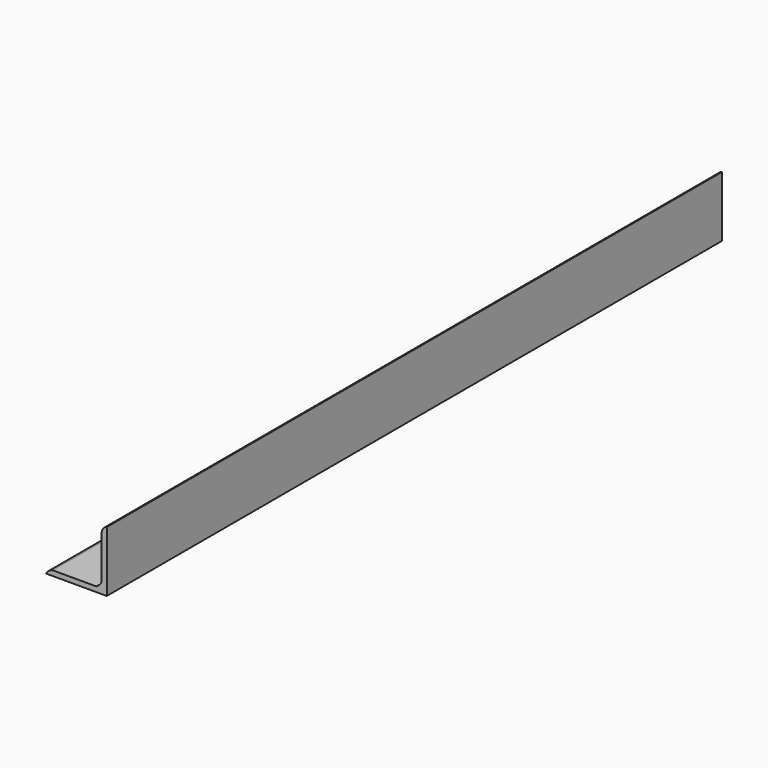
from build123d import *

# Parameters (mm, degrees)
F1_DEPTH = 482.6


with BuildPart() as f1:
    # F0 (on Front) → F1 (new body)
    with BuildSketch(Plane.XZ):
        with BuildLine():
            Line((-3.175, 0), (0, 0))
            Line((0, 0), (0, 3.175))
            Line((0, 3.175), (0, 38.1))
            ThreePointArc((0, 38.1), (-2.374811, 36.431428), (-3.175, 33.641525))
            Line((-3.175, 33.641525), (-3.175, 7.316625))
            ThreePointArc((-3.175, 7.316625), (-4.417453, 4.790697), (-6.722561, 3.175))
            Line((-6.722561, 3.175), (-33.87744, 3.175))
            ThreePointArc((-33.87744, 3.175), (-36.362901, 2.085139), (-38.1, 0))
            Line((-38.1, 0), (-3.175, 0))
        make_face()
    extrude(amount=F1_DEPTH)


solid = f1.part
